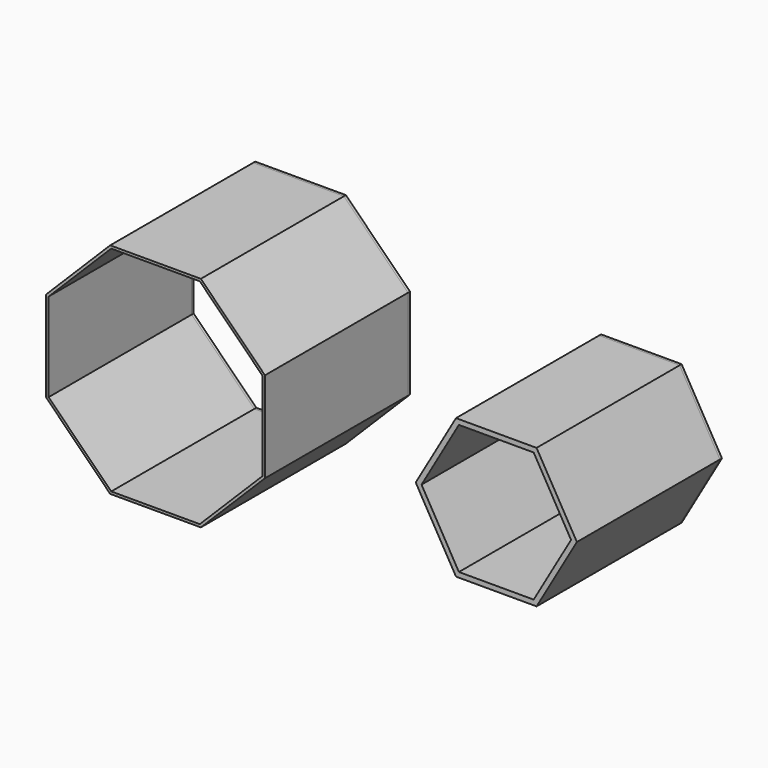
from build123d import *

# Parameters (mm, degrees)
F1_DEPTH = 1828.8
F2_DEPTH = 25.4


with BuildPart() as f1:
    # F0 (on Front) → F1 (new body)
    with BuildSketch(Plane.XZ):
        Polygon((406.4, -703.905448), (812.8, 0), (406.4, 703.905448), (-406.4, 703.905448), (-812.8, 0), (-406.4, -703.905448), align=None)
        Polygon((-377.070606, -653.105448), (-754.141213, 0), (-377.070606, 653.105448), (377.070606, 653.105448), (754.141213, 0), (377.070606, -653.105448), align=None, mode=Mode.SUBTRACT)
        Polygon((-3894.620845, -1103.778441), (-2980.220845, -1103.778441), (-2333.642404, -457.2), (-2333.642404, 457.2), (-2980.220845, 1103.778441), (-3894.620845, 1103.778441), (-4541.199286, 457.2), (-4541.199286, -457.2), align=None)
        Polygon((-4515.799286, -446.678976), (-4515.799286, 446.678976), (-3884.099821, 1078.378441), (-2990.74187, 1078.378441), (-2359.042404, 446.678976), (-2359.042404, -446.678976), (-2990.74187, -1078.378441), (-3884.099821, -1078.378441), align=None, mode=Mode.SUBTRACT)
    extrude(amount=F1_DEPTH)


with BuildPart() as f2:
    # F0 (on Front) → F2 (new body)
    with BuildSketch(Plane.XZ):
        Polygon((406.4, -703.905448), (812.8, 0), (406.4, 703.905448), (-406.4, 703.905448), (-812.8, 0), (-406.4, -703.905448), align=None)
        Polygon((-377.070606, -653.105448), (-754.141213, 0), (-377.070606, 653.105448), (377.070606, 653.105448), (754.141213, 0), (377.070606, -653.105448), align=None, mode=Mode.SUBTRACT)
        Polygon((-3894.620845, -1103.778441), (-2980.220845, -1103.778441), (-2333.642404, -457.2), (-2333.642404, 457.2), (-2980.220845, 1103.778441), (-3894.620845, 1103.778441), (-4541.199286, 457.2), (-4541.199286, -457.2), align=None)
        Polygon((-4515.799286, -446.678976), (-4515.799286, 446.678976), (-3884.099821, 1078.378441), (-2990.74187, 1078.378441), (-2359.042404, 446.678976), (-2359.042404, -446.678976), (-2990.74187, -1078.378441), (-3884.099821, -1078.378441), align=None, mode=Mode.SUBTRACT)
    extrude(amount=F2_DEPTH)


solid = Compound([f1.part, f2.part])
